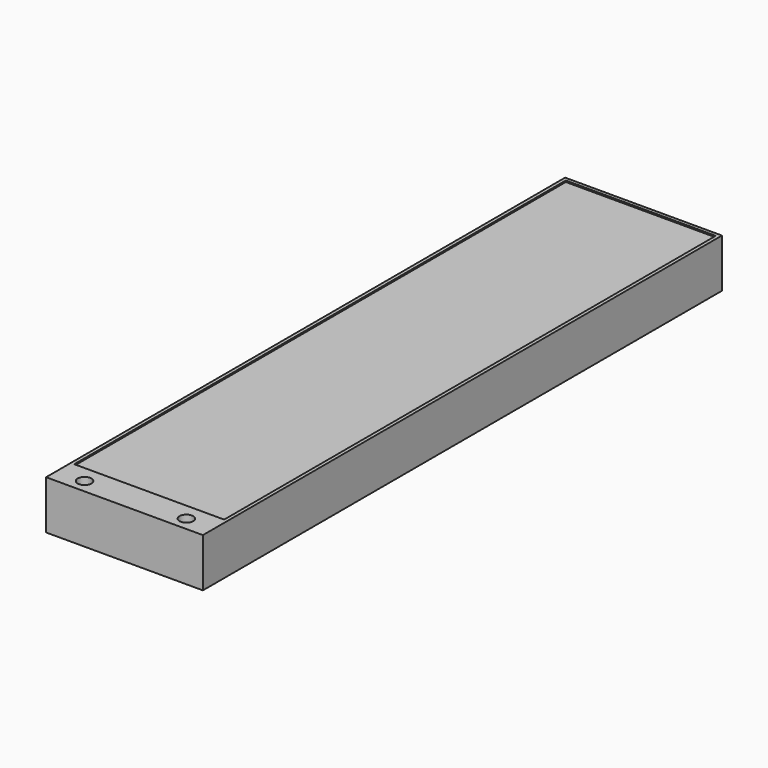
from build123d import *

# Parameters (mm, degrees)
F0_W     = 144.999558
F0_H     = 599.998292
F1_DEPTH = 44.999859
F2_W     = 138.649558
F2_H     = 568.248292
F3_DEPTH = 1.27
F4_R     = 6.35
F5_DEPTH = 12.7


with BuildPart() as f1:
    # F0 (on Top) → F1 (new body)
    with BuildSketch(Plane.XY):
        with Locations((72.499779, 299.999146)):
            Rectangle(F0_W, F0_H)
    extrude(amount=F1_DEPTH)

    # F2 (on face) → F3 (cut)
    with BuildSketch(Plane.XY.offset(44.999859)):
        with Locations((72.499779, 312.699146)):
            Rectangle(F2_W, F2_H)
    extrude(amount=-F3_DEPTH, mode=Mode.SUBTRACT)

    # F4 (on face) → F5 (cut)
    with BuildSketch(Plane.XY.offset(44.999859)):
        with Locations((25.4, 12.7)):
            Circle(F4_R)
        with Locations((119.599558, 12.7)):
            Circle(F4_R)
    extrude(amount=-F5_DEPTH, mode=Mode.SUBTRACT)


solid = f1.part
